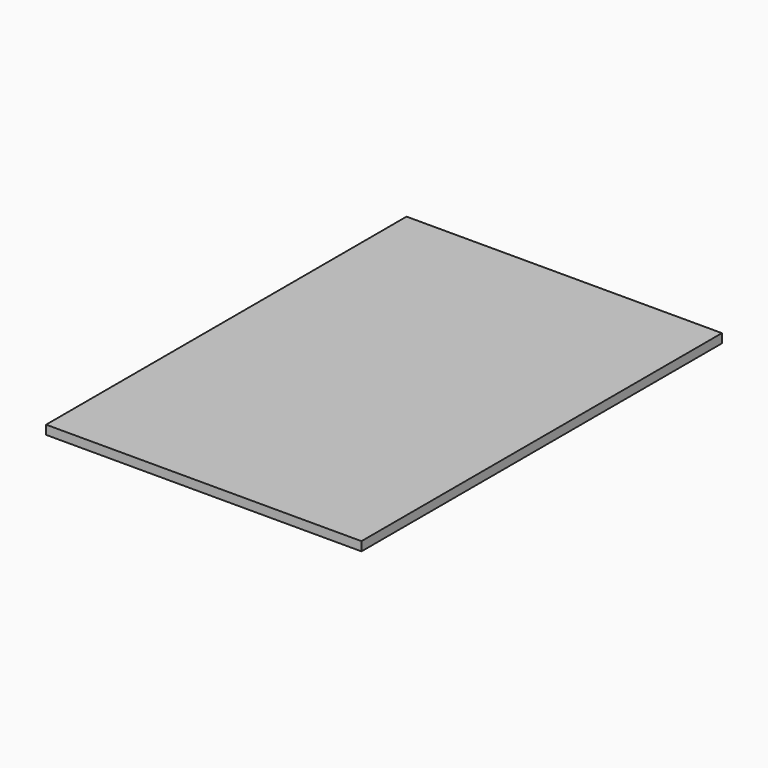
from build123d import *

# Parameters (mm, degrees)
BOX004_W     = 100
BOX004_H     = 145
BOX004_DEPTH = 70
BOX005_W     = 105
BOX005_H     = 150
BOX005_DEPTH = 3


with BuildPart() as cubo004:
    # Box004 → Box004 (new body)
    with BuildSketch(Plane(origin=(2.5, 2.5, 3), x_dir=(1, 0, 0), z_dir=(0, 0, 1))):
        with Locations((50, 72.5)):
            Rectangle(BOX004_W, BOX004_H)
    extrude(amount=BOX004_DEPTH)


with BuildPart() as caja002:
    # Box005 → Box005 (new body)
    with BuildSketch(Plane.XY):
        with Locations((52.5, 75)):
            Rectangle(BOX005_W, BOX005_H)
    extrude(amount=BOX005_DEPTH)

    # Cut007: cut Cubo004
    add(cubo004.part, mode=Mode.SUBTRACT)


with BuildPart() as caja002_1:
    # Cut007 placement: moved
    add(caja002.part.moved(Location((0, 0, 72))))


solid = caja002_1.part
